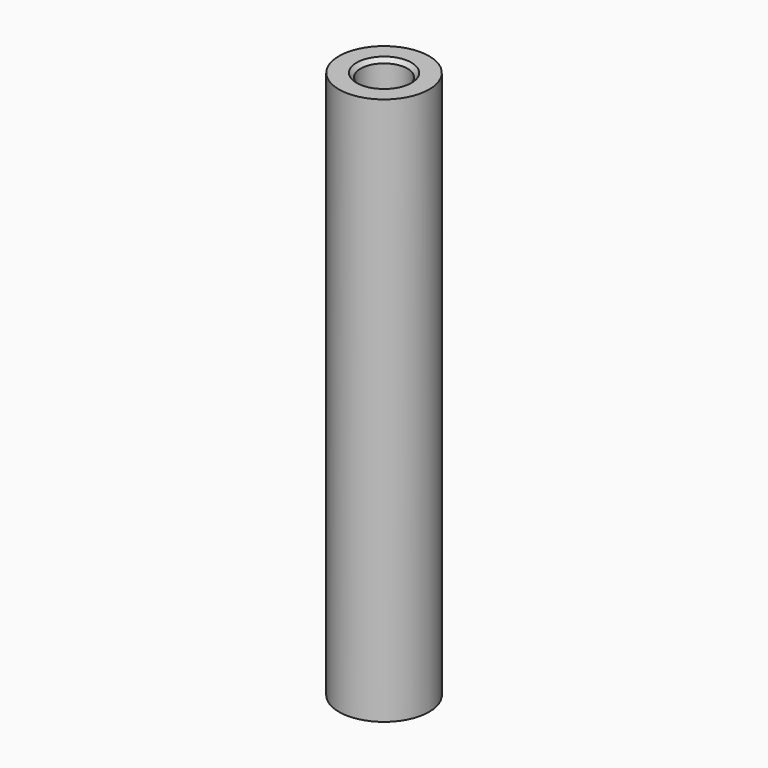
from build123d import *

# Parameters (mm, degrees)
F0_R     = 2.8829
F1_DEPTH = 17.5
F2_R     = 1.49987
F3_DEPTH = 35.001
F4_SIZE  = 0.254


with BuildPart() as f1:
    # F0 (on Top) → F1 (new body, symmetric)
    with BuildSketch(Plane.XY):
        Circle(F0_R)
    extrude(amount=F1_DEPTH, both=True)

    # F2 (on face) → F3 (cut, through all)
    with BuildSketch(Plane.XY.offset(17.5)):
        Circle(F2_R)
    extrude(amount=-F3_DEPTH, mode=Mode.SUBTRACT)

    # F4
    f4_edges = [f1.edges().sort_by_distance(p)[0] for p in [
        (-1.49987, 0, 17.5),
        (-1.49987, 0, -17.5),
    ]]
    chamfer(f4_edges, length=F4_SIZE)


solid = f1.part
